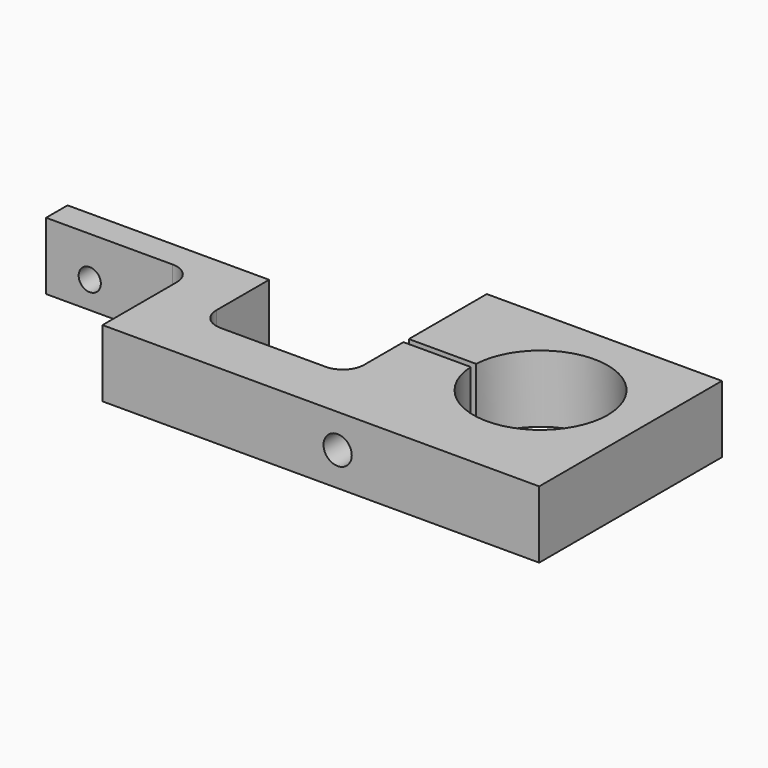
from build123d import *

# Parameters (mm, degrees)
F1_DEPTH = 10
F3_D     = 4.2
F5_D     = 3.3


with BuildPart() as f1:
    # F0 (on Top) → F1 (new body)
    with BuildSketch(Plane.XY):
        with BuildLine():
            ThreePointArc((-9.9874921777, 0.5), (10, 0), (-9.9874921777, -0.5))
            Line((-9.9874921777, -0.5), (-20, -0.5))
            Line((-20, -0.5), (-20, -7.825))
            ThreePointArc((-20, -7.825), (-20.9299359697, -10.0700640303), (-23.175, -11))
            Line((-23.175, -11), (-38.825, -11))
            ThreePointArc((-38.825, -11), (-41.0700640303, -10.0700640303), (-42, -7.825))
            Line((-42, -7.825), (-42, 2))
            Line((-42, 2), (-72, 2))
            Line((-72, 2), (-72, -2))
            Line((-72, -2), (-53.175, -2))
            ThreePointArc((-53.175, -2), (-50.9299359697, -2.9299359697), (-50, -5.175))
            Line((-50, -5.175), (-50, -19))
            Line((-50, -19), (15, -19))
            Line((15, -19), (15, 15))
            Line((15, 15), (-20, 15))
            Line((-20, 15), (-20, 0.5))
            Line((-20, 0.5), (-9.9874921777, 0.5))
        make_face()
    extrude(amount=F1_DEPTH)

    # F3 (through all)
    with Locations(Plane(origin=(0, 15, 0), x_dir=(-1, 0, 0), z_dir=(0, 1, 0))):
        with Locations((15, 5)):
            Hole(F3_D / 2)

    # F5 (through all)
    with Locations(Plane(origin=(0, 2, 0), x_dir=(-1, 0, 0), z_dir=(0, 1, 0))):
        with Locations((65.5, 4)):
            Hole(F5_D / 2)


solid = f1.part
